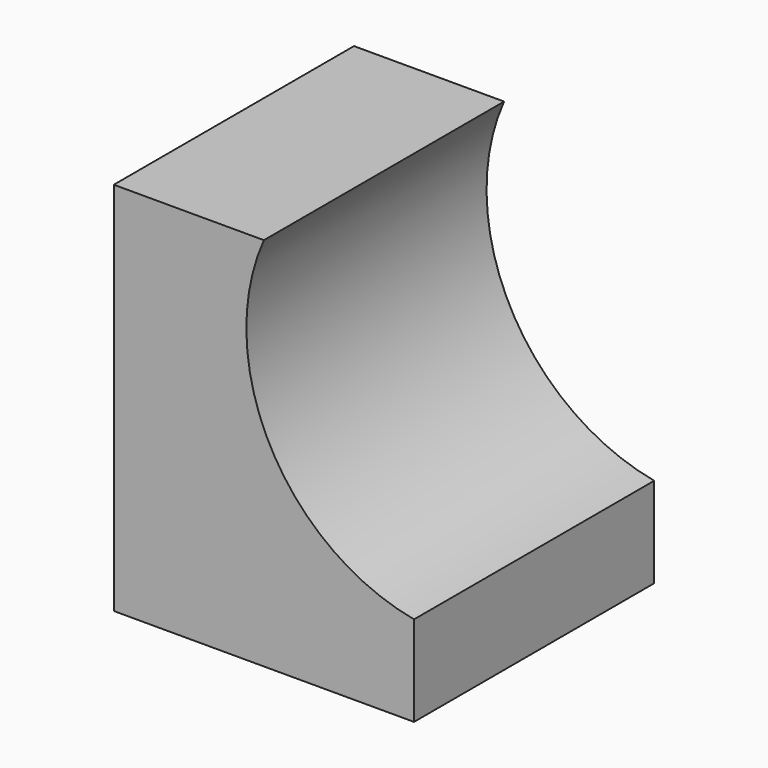
from build123d import *

# Parameters (mm, degrees)
F1_DEPTH = 50.8
F3_DEPTH = 50.8


with BuildPart() as f1:
    # F0 (on Front) → F1 (new body)
    with BuildSketch(Plane.XZ):
        Polygon((-50.8, 0), (0, 0), (0, 38.1), (-25.4, 38.1), (-25.4, 63.5), (-50.8, 63.5), align=None)
    extrude(amount=F1_DEPTH)

    # F2 (on face) → F3 (cut)
    with BuildSketch(Plane.XZ.offset(50.8)):
        with BuildLine():
            Line((-25.4, 38.1), (-25.4, 63.5))
            ThreePointArc((-25.4, 63.5), (-24.36322, 33.245019), (0, 15.276372))
            Line((0, 15.276372), (0, 38.1))
            Line((0, 38.1), (-25.4, 38.1))
        make_face()
    extrude(amount=-F3_DEPTH, mode=Mode.SUBTRACT)


solid = f1.part
